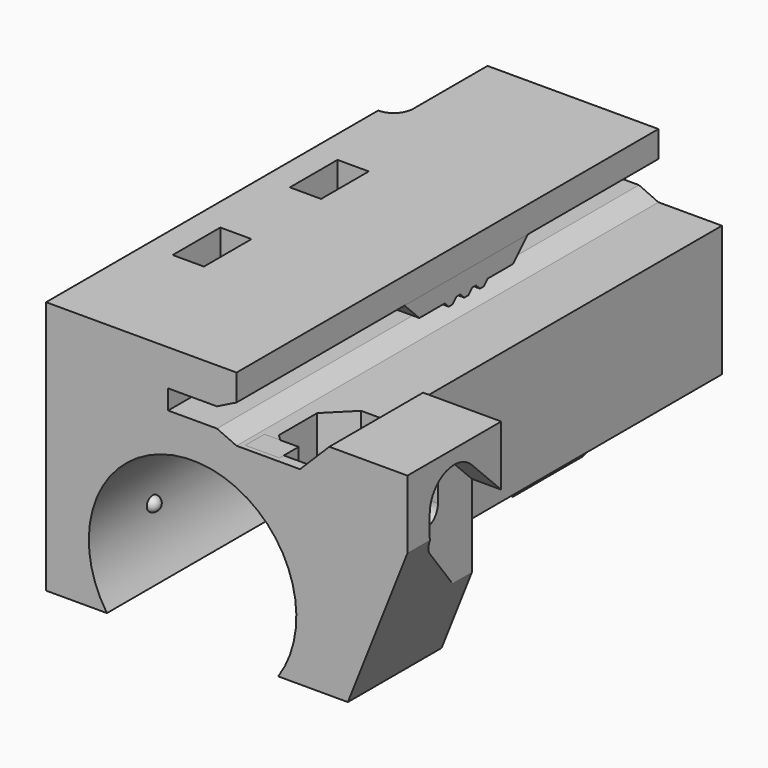
from build123d import *

# Parameters (mm, degrees)
PAD_DEPTH       = 60
POCKET_DEPTH    = 36.001
POCKET001_DEPTH = 38.001
POCKET002_DEPTH = 6
POCKET003_DEPTH = 48
POCKET004_DEPTH = 15
SKETCH006_W     = 7
SKETCH006_H     = 8.2
POCKET005_DEPTH = 4
POCKET006_DEPTH = 3.2
SKETCH011_R     = 1.25
POCKET007_DEPTH = 4
SKETCH012_R     = 1.65
POCKET008_DEPTH = 11
POCKET009_DEPTH = 3
POCKET010_DEPTH = 11
POCKET011_DEPTH = 60.001
PAD001_DEPTH    = 8
SKETCH017_W     = 3.5
SKETCH017_H     = 2.45
PAD002_DEPTH    = 13.4
SKETCH018_R     = 10.625
POCKET012_DEPTH = 2.951


with BuildPart() as main_body:
    # Sketch → Pad (new body)
    with BuildSketch(Plane.XZ):
        with BuildLine():
            ThreePointArc((24.76873, 10), (12.937657, 26.174118), (12, 6.156696))
            Line((12, 6.156696), (12, 5))
            Line((12, 5), (8, 0))
            Line((8, 0), (0, 0))
            Line((0, 0), (0, 36))
            Line((0, 36), (20.5, 36))
            Line((20.5, 36), (20.5, 32.3))
            Line((20.5, 32.3), (13.5, 32.3))
            Line((13.5, 32.3), (13.5, 30.3))
            Line((13.5, 30.3), (20.5, 30.3))
            Line((20.5, 30.3), (20.5, 29.4))
            Line((20.5, 29.4), (27, 29.4))
            Line((27, 29.4), (30, 32.4))
            Line((30, 32.4), (38, 32.4))
            Line((38, 32.4), (38, 25.4))
            Line((38, 25.4), (31.9, 10))
            Line((24.76873, 10), (31.9, 10))
        make_face()
    extrude(amount=-PAD_DEPTH)

    # Sketch001 → Pocket (cut, through all)
    with BuildSketch(Plane.XY):
        Polygon((0, 46), (1, 45), (1, 0), (0, 0), align=None)
    extrude(amount=POCKET_DEPTH, mode=Mode.SUBTRACT)

    # Sketch002 → Pocket001 (cut, through all)
    with BuildSketch(Plane.YZ):
        Polygon((0, 10), (41, 10), (51, 0), (0, 0), align=None)
    extrude(amount=POCKET001_DEPTH, mode=Mode.SUBTRACT)

    # Sketch003 → Pocket002 (cut)
    with BuildSketch(Plane.XZ.offset(-54)):
        Polygon((0, 36), (0, 26), (12.5, 26), (12.5, 0), (38, 0), (38, 36), align=None)
    extrude(amount=-POCKET002_DEPTH, mode=Mode.SUBTRACT)

    # Sketch004 → Pocket003 (cut)
    with BuildSketch(Plane.XZ.offset(-60)):
        Polygon((27, 36), (27, 16), (16, 16), (16, 0), (38, 0), (38, 36), align=None)
    extrude(amount=POCKET003_DEPTH, mode=Mode.SUBTRACT)

    # Sketch005 → Pocket004 (cut)
    with BuildSketch(Plane.XY.offset(36)):
        with BuildLine():
            Line((-1, 60), (3, 60))
            Line((3, 60), (3, 44.5))
            ThreePointArc((-1, 44.5), (1, 42.5), (3, 44.5))
            Line((-1, 60), (-1, 44.5))
        make_face()
    extrude(amount=-POCKET004_DEPTH, mode=Mode.SUBTRACT)

    # Sketch006 → Pocket005 (cut)
    with BuildSketch(Plane.XY):
        with Locations((3.5, 55.9)):
            Rectangle(SKETCH006_W, SKETCH006_H)
    extrude(amount=POCKET005_DEPTH, mode=Mode.SUBTRACT)

    # Sketch009 → SubtractiveLoft section 0
    with BuildSketch(Plane.YZ.offset(22)):
        with BuildLine():
            ThreePointArc((3.55, 25.8), (6, 23.35), (8.45, 25.8))
            Line((8.45, 32.73), (8.45, 25.8))
            Line((8.45, 32.73), (12, 32.73))
            Line((12, 32.73), (12, 36))
            Line((3.55, 36), (12, 36))
            Line((3.55, 25.8), (3.55, 36))
        make_face()
    # Sketch008 → SubtractiveLoft section 1
    with BuildSketch(Plane.YZ.offset(24.5)):
        with BuildLine():
            ThreePointArc((1.05, 25.8), (6, 20.85), (10.95, 25.8))
            Line((10.95, 29.4), (10.95, 25.8))
            Line((10.95, 29.4), (12, 29.4))
            Line((12, 29.4), (12, 36))
            Line((1.05, 36), (12, 36))
            Line((1.05, 25.8), (1.05, 36))
        make_face()
    # Sketch007 → SubtractiveLoft section 2
    with BuildSketch(Plane.YZ.offset(29.5)):
        with BuildLine():
            ThreePointArc((1.05, 25.8), (6, 20.85), (10.95, 25.8))
            Line((10.95, 29.4), (10.95, 25.8))
            Line((10.95, 29.4), (12, 29.4))
            Line((12, 29.4), (12, 36))
            Line((1.05, 36), (12, 36))
            Line((1.05, 25.8), (1.05, 36))
        make_face()
    loft(ruled=True, mode=Mode.SUBTRACT)

    # Sketch010 → Pocket006 (cut)
    with BuildSketch(Plane.YZ.offset(3.8)):
        Polygon((12.7, 30.760918), (12.7, 27.239082), (15.75, 25.478163), (18.8, 27.239082), (18.8, 30.760918), (18.8, 36), (12.7, 36), align=None)
        Polygon((27.7, 30.760918), (27.7, 27.239082), (30.75, 25.478163), (33.8, 27.239082), (33.8, 30.760918), (33.8, 36), (27.7, 36), align=None)
    extrude(amount=POCKET006_DEPTH, mode=Mode.SUBTRACT)

    # Sketch011 → Pocket007 (cut)
    with BuildSketch(Plane.YZ):
        with Locations((49.3, 17)):
            Circle(SKETCH011_R)
        with Locations((49.3, 7)):
            Circle(SKETCH011_R)
    extrude(amount=POCKET007_DEPTH, mode=Mode.SUBTRACT)

    # Sketch012 → Pocket008 (cut)
    with BuildSketch(Plane.YZ):
        with Locations((15.75, 29)):
            Circle(SKETCH012_R)
        with Locations((30.75, 29)):
            Circle(SKETCH012_R)
    extrude(amount=POCKET008_DEPTH, mode=Mode.SUBTRACT)

    # Sketch013 → Pocket009 (cut)
    with BuildSketch(Plane.YZ.offset(38)):
        with BuildLine():
            ThreePointArc((8.227386, 30.027386), (4.794547, 30.710221), (2.85, 27.8))
            Line((2.85, 27.8), (2.85, 25.8))
            ThreePointArc((2.85, 25.8), (3.089779, 24.594547), (3.772614, 23.572614))
            Line((12, 15.345227), (3.772614, 23.572614))
            Line((12, 26.254773), (12, 15.345227))
            Line((8.227386, 30.027386), (12, 26.254773))
        make_face()
    extrude(amount=-POCKET009_DEPTH, mode=Mode.SUBTRACT)

    # Sketch014 → Pocket010 (cut)
    with BuildSketch(Plane.YZ.offset(38)):
        with BuildLine():
            ThreePointArc((7.65, 27.8), (6, 29.45), (4.35, 27.8))
            Line((4.35, 27.8), (4.35, 25.8))
            ThreePointArc((4.35, 25.8), (6, 24.15), (7.65, 25.8))
            Line((7.65, 27.8), (7.65, 25.8))
        make_face()
    extrude(amount=-POCKET010_DEPTH, mode=Mode.SUBTRACT)

    # Sketch015 → Pocket011 (cut, through all)
    with BuildSketch(Plane.XZ):
        Polygon((20.5, 33.3), (17.5, 31.8), (17.5, 30.75), (20.5, 29.4), align=None)
    extrude(amount=-POCKET011_DEPTH, mode=Mode.SUBTRACT)


with BuildPart() as belt_gripper:
    # Sketch016 → Pad001 (new body)
    with BuildSketch(Plane.YZ.offset(20.5)):
        Polygon((21.5, 33.3), (37.3, 33.3), (35.4, 31.4), (32.15, 31.4), (31.65, 30.9), (31.15, 30.9), (30.65, 31.4), (30.15, 31.4), (29.65, 30.9), (29.15, 30.9), (28.65, 31.4), (28.15, 31.4), (27.65, 30.9), (27.15, 30.9), (26.65, 31.4), (23.4, 31.4), align=None)
    extrude(amount=-PAD001_DEPTH)


with BuildPart() as obj1:
    # Sketch017 → Pad002 (new body)
    with BuildSketch(Plane.XY.offset(29.4)):
        with Locations((22.75, 1.725)):
            Rectangle(SKETCH017_W, SKETCH017_H)
    extrude(amount=-PAD002_DEPTH)

    # Sketch018 → Pocket012 (cut, through all)
    with BuildSketch(Plane.XZ):
        with Locations((16, 16)):
            Circle(SKETCH018_R)
    extrude(amount=-POCKET012_DEPTH, mode=Mode.SUBTRACT)


with BuildPart() as body003:
    # Sketch019 → Revolution (revolve)
    with BuildSketch(Plane.YZ.offset(5.375)):
        with BuildLine():
            ThreePointArc((8.15, 15.25), (8.9, 16), (8.15, 16.75))
            Line((8.15, 16.75), (8.15, 15.25))
        make_face()
    revolve(axis=Axis((5.375, 8.15, 16.75), (0, 0, -1)))


with BuildPart() as body004:
    # Sketch020 → Revolution001 (revolve)
    with BuildSketch(Plane.YZ.offset(5.375)):
        with BuildLine():
            ThreePointArc((52.85, 16.75), (52.1, 16), (52.85, 15.25))
            Line((52.85, 15.25), (52.85, 16.75))
        make_face()
    revolve(axis=Axis((5.375, 52.85, 15.25), (0, 0, 1)))


solid = Compound([main_body.part, belt_gripper.part, obj1.part, body003.part, body004.part])
